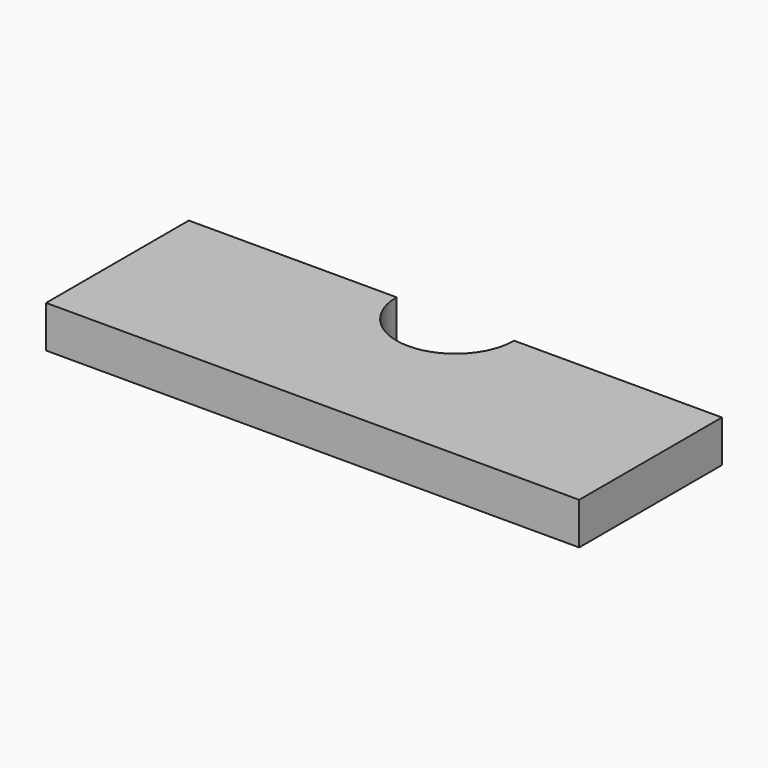
from build123d import *

# Parameters (mm, degrees)
F1_DEPTH = 6.35


with BuildPart() as f1:
    # F0 (on Top) → F1 (new body)
    with BuildSketch(Plane.XY):
        with BuildLine():
            Line((31.4325, 0), (0, 0))
            Line((0, 0), (0, -26.9875))
            Line((0, -26.9875), (80.645, -26.9875))
            Line((80.645, -26.9875), (80.645, 0))
            Line((80.645, 0), (49.2125, 0))
            ThreePointArc((49.2125, 0), (40.3225, -8.89), (31.4325, 0))
        make_face()
    extrude(amount=F1_DEPTH)


solid = f1.part
